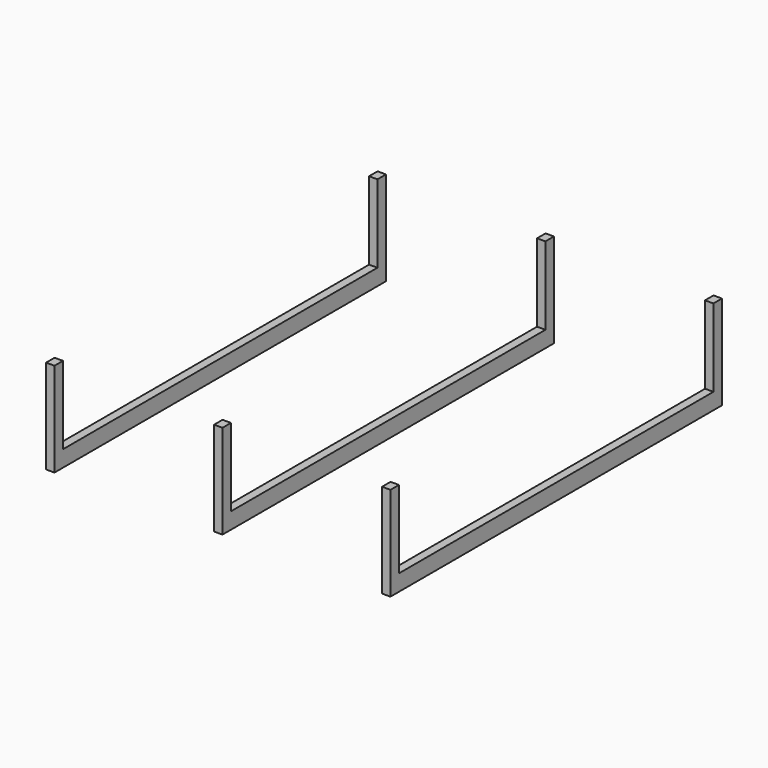
from build123d import *

# Parameters (mm, degrees)
BOX006_W      = 1.5
BOX006_H      = 70.2
BOX006_DEPTH  = 16.8
BOX003_W      = 1.5
BOX003_H      = 74
BOX003_DEPTH  = 16.8
ARRAY_X_COUNT = 3
ARRAY_X_PITCH = 30


with BuildPart() as cube005:
    # Box006 → Box006 (new body)
    with BuildSketch(Plane(origin=(0, 1.9, 2.9), x_dir=(1, 0, 0), z_dir=(0, 0, 1))):
        with Locations((0.75, 35.1)):
            Rectangle(BOX006_W, BOX006_H)
    extrude(amount=BOX006_DEPTH)


with BuildPart() as obj1:
    # Box003 → Box003 (new body)
    with BuildSketch(Plane.XY):
        with Locations((0.75, 37)):
            Rectangle(BOX003_W, BOX003_H)
    extrude(amount=BOX003_DEPTH)

    # Cut002: cut Cube005
    add(cube005.part, mode=Mode.SUBTRACT)

    # Array X: obj1 ×3


with BuildPart() as obj1_1:
    add(obj1.part)
    with Locations(*[(i * ARRAY_X_PITCH, 0, 0) for i in range(1, ARRAY_X_COUNT)]):
        add(obj1.part)


with BuildPart() as obj1_2:
    # Array placement: moved
    add(obj1_1.part.moved(Location((20, 0, 0))))


solid = obj1_2.part
